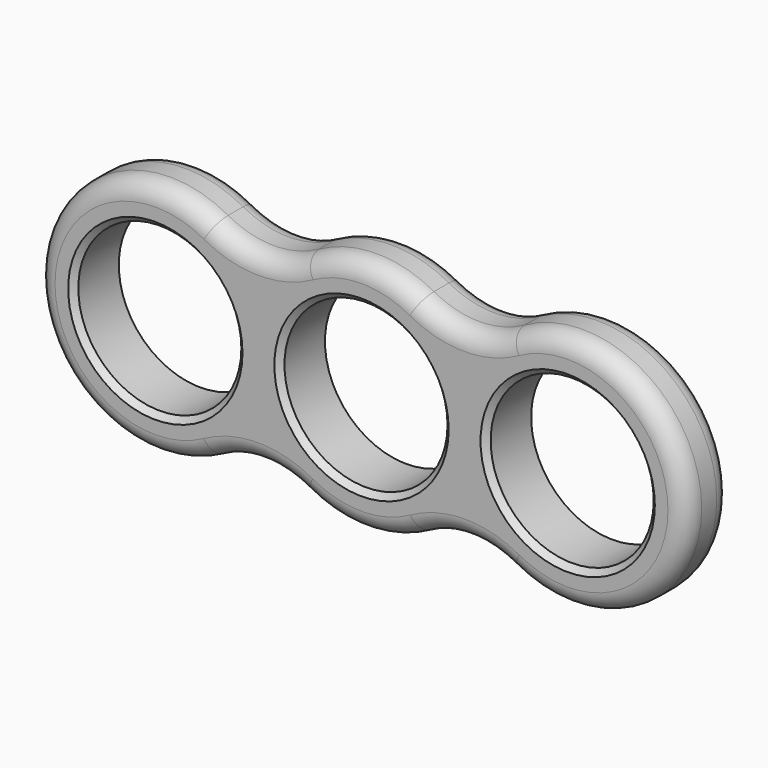
from build123d import *

# Parameters (mm, degrees)
F0_R     = 11.049
F1_DEPTH = 7.62
F2_R     = 2.54
F3_SIZE  = 0.762


with BuildPart() as f1:
    # F0 (on Front) → F1 (new body)
    with BuildSketch(Plane.XZ):
        with BuildLine():
            ThreePointArc((-20.148096, -14.074648), (-13.991215, -12.494351), (-7.839726, -14.095508))
            ThreePointArc((-7.839726, -14.095508), (0, -16.129), (7.839726, -14.095508))
            ThreePointArc((7.839726, -14.095508), (13.991215, -12.494351), (20.148096, -14.074648))
            ThreePointArc((20.148096, -14.074648), (44.068977, 0.074687), (20.100274, 14.142859))
            ThreePointArc((20.100274, 14.142859), (13.948785, 12.541703), (7.791904, 14.122))
            ThreePointArc((7.791904, 14.122), (0, 16.129), (-7.791904, 14.122))
            ThreePointArc((-7.791904, 14.122), (-13.948785, 12.541703), (-20.100274, 14.142859))
            ThreePointArc((-20.100274, 14.142859), (-44.068977, 0.074687), (-20.148096, -14.074648))
        make_face()
        Circle(F0_R, mode=Mode.SUBTRACT)
        with Locations((-27.94, 0.047352)):
            Circle(F0_R, mode=Mode.SUBTRACT)
        with Locations((27.94, 0.047352)):
            Circle(F0_R, mode=Mode.SUBTRACT)
    extrude(amount=F1_DEPTH)

    # F2
    f2_edges = [f1.edges().sort_by_distance(p)[0] for p in [
        (44.068977, -7.62, 0.074687),
        (44.068977, 0, 0.074687),
    ]]
    fillet(f2_edges, radius=F2_R)

    # F3
    f3_edges = [f1.edges().sort_by_distance(p)[0] for p in [
        (-38.989, -7.62, 0.047352),
        (-11.049, -7.62, 0),
        (16.891, -7.62, 0.047352),
    ]]
    chamfer(f3_edges, length=F3_SIZE)


solid = f1.part
